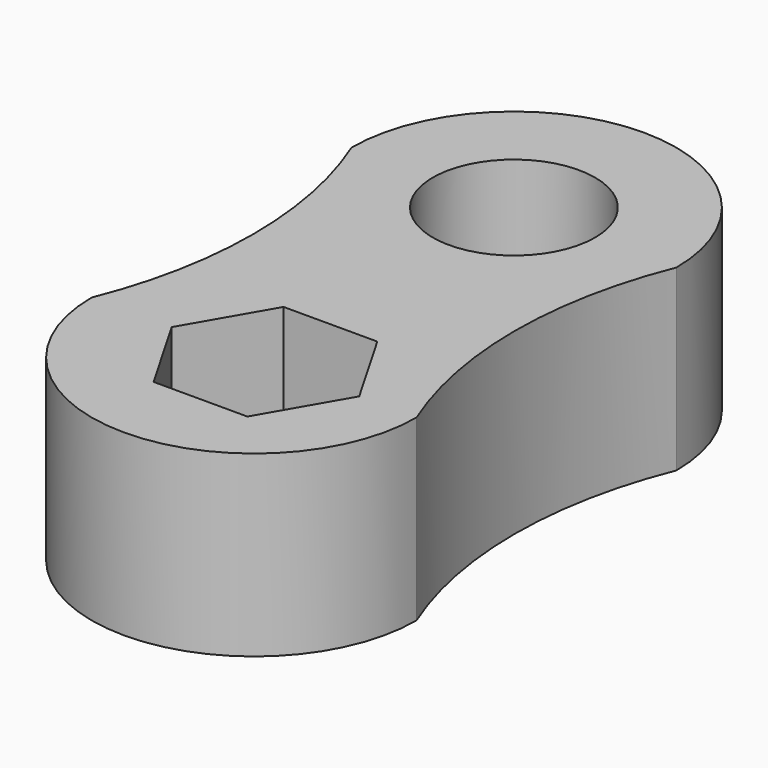
from build123d import *

# Parameters (mm, degrees)
F0_R     = 15
F1_DEPTH = 33


with BuildPart() as f1:
    # F0 (on Top) → F1 (new body)
    with BuildSketch(Plane.XY):
        with BuildLine():
            ThreePointArc((-15.6397230178, 31.6627646983), (-9.8017078888, 1.6627646983), (-15.6397230178, -28.3372353017))
            ThreePointArc((-15.6397230178, -28.3372353017), (14.3602769822, -58.3372353017), (44.3602769822, -28.3372353017))
            ThreePointArc((44.3602769822, -28.3372353017), (38.5222618531, 1.6627646983), (44.3602769822, 31.6627646983))
            ThreePointArc((44.3602769822, 31.6627646983), (14.3602769822, 61.6627646983), (-15.6397230178, 31.6627646983))
        make_face()
        Polygon((-0.8574276546, -28.3372353017), (7.8028263832, -13.3372353017), (14.3602769822, -13.3372353017), (25.1233344589, -13.3372353017), (33.7835884968, -28.3372353017), (25.1233344589, -43.3372353017), (7.8028263832, -43.3372353017), align=None, mode=Mode.SUBTRACT)
        with Locations((14.3602769822, 31.6627646983)):
            Circle(F0_R, mode=Mode.SUBTRACT)
    extrude(amount=F1_DEPTH)


solid = f1.part
